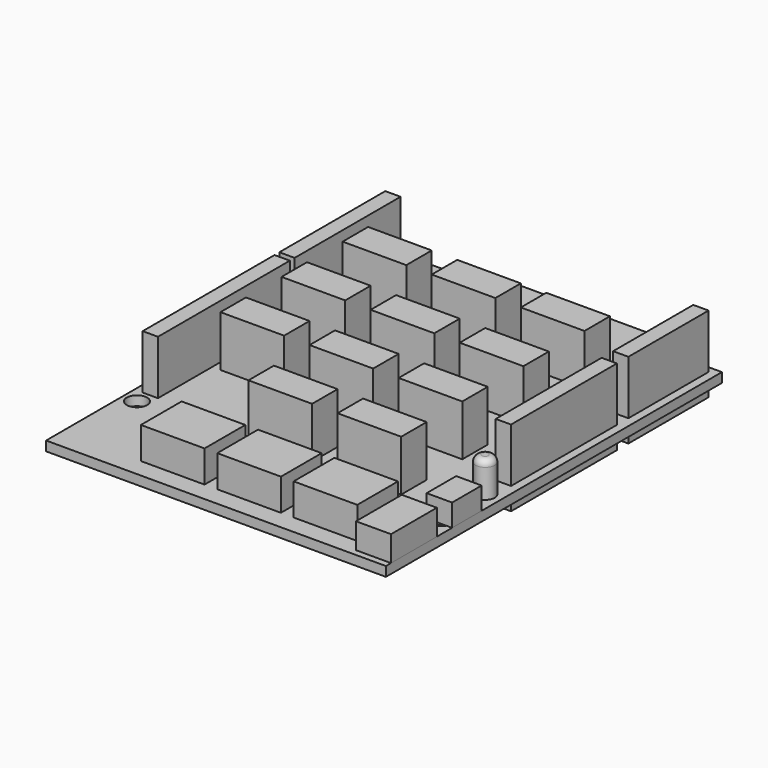
from build123d import *

# Parameters (mm, degrees)
PAD_DEPTH    = 1.5
SKETCH001_R  = 1.6
POCKET_DEPTH = 1.501
SKETCH006_W  = 2.4
SKETCH006_H  = 25.9
PAD005_DEPTH = 3.5
SKETCH007_W  = 2.4
SKETCH007_H  = 20.8
PAD006_DEPTH = 3.5
SKETCH008_W  = 2.4
SKETCH008_H  = 20.8
PAD007_DEPTH = 3.5
SKETCH009_W  = 2.4
SKETCH009_H  = 15.75
PAD008_DEPTH = 3.5
SKETCH010_W  = 10
SKETCH010_H  = 8
PAD009_DEPTH = 5
SKETCH011_W  = 10
SKETCH011_H  = 5
PAD010_DEPTH = 8
SKETCH015_W  = 2.4
SKETCH015_H  = 15.75
PAD014_DEPTH = 8.5
SKETCH012_W  = 2.4
SKETCH012_H  = 20.8
PAD012_DEPTH = 8.5
SKETCH014_W  = 2.4
SKETCH014_H  = 25.9
PAD011_DEPTH = 8.5
SKETCH013_W  = 2.4
SKETCH013_H  = 20.8
PAD013_DEPTH = 8.5
SKETCH016_R  = 1.5
PAD015_DEPTH = 5.5
FILLET_R     = 1
SKETCH017_W  = 4
SKETCH017_H  = 5.8
PAD016_DEPTH = 3.5
SKETCH018_W  = 5.5
SKETCH018_H  = 9
PAD017_DEPTH = 4


with BuildPart() as mainboard:
    # Sketch → Pad (new body)
    with BuildSketch(Plane.XY):
        Polygon((0, 0), (53.4, 0), (53.4, 66), (49.8, 66), (47.3, 68.5), (15.3, 68.5), (12.8, 66), (0, 66), align=None)
    extrude(amount=-PAD_DEPTH)

    # Sketch001 → Pocket (cut, through all)
    with BuildSketch(Plane.XY):
        with Locations((2.2, 15.1)):
            Circle(SKETCH001_R)
        with Locations((51.1, 13.8)):
            Circle(SKETCH001_R)
        with Locations((17.6, 66.3)):
            Circle(SKETCH001_R)
        with Locations((45.3, 66.3)):
            Circle(SKETCH001_R)
    extrude(amount=-POCKET_DEPTH, mode=Mode.SUBTRACT)


with BuildPart() as pins1:
    # Sketch006 → Pad005 (new body)
    with BuildSketch(Plane.XY):
        with Locations((2.5, 30.3)):
            Rectangle(SKETCH006_W, SKETCH006_H)
    extrude(amount=-PAD005_DEPTH)


with BuildPart() as pins2:
    # Sketch007 → Pad006 (new body)
    with BuildSketch(Plane.XY):
        with Locations((2.5, 54.6)):
            Rectangle(SKETCH007_W, SKETCH007_H)
    extrude(amount=-PAD006_DEPTH)


with BuildPart() as pins3:
    # Sketch008 → Pad007 (new body)
    with BuildSketch(Plane.XY):
        with Locations((50.9, 36.6)):
            Rectangle(SKETCH008_W, SKETCH008_H)
    extrude(amount=-PAD007_DEPTH)


with BuildPart() as pins4:
    # Sketch009 → Pad008 (new body)
    with BuildSketch(Plane.XY):
        with Locations((50.9, 57.125)):
            Rectangle(SKETCH009_W, SKETCH009_H)
    extrude(amount=-PAD008_DEPTH)


with BuildPart() as grove_a3:
    # Sketch010 → Pad009 (new body)
    with BuildSketch(Plane.XY):
        with Locations((5.5, 7)):
            Rectangle(SKETCH010_W, SKETCH010_H)
    extrude(amount=PAD009_DEPTH)


with BuildPart() as grove_a2:
    # Body010 base: copy of Grove_A3
    add(grove_a3.part)


with BuildPart() as grove_a2_1:
    # Body010 placement: moved
    add(grove_a2.part.moved(Location((12, 0, 0))))


with BuildPart() as grove_a1:
    # Body011 base: copy of Grove_A3
    add(grove_a3.part)


with BuildPart() as grove_a1_1:
    # Body011 placement: moved
    add(grove_a1.part.moved(Location((24, 0, 0))))


with BuildPart() as grove_a0:
    # Body012 base: copy of Grove_A3
    add(grove_a3.part)


with BuildPart() as grove_a0_1:
    # Body012 placement: moved
    add(grove_a0.part.moved(Location((36, 0, 0))))


with BuildPart() as grove_d4:
    # Sketch011 → Pad010 (new body)
    with BuildSketch(Plane.XY):
        with Locations((10, 18.5)):
            Rectangle(SKETCH011_W, SKETCH011_H)
    extrude(amount=PAD010_DEPTH)


with BuildPart() as grove_d8:
    # Body014 base: copy of Grove_D4
    add(grove_d4.part)


with BuildPart() as grove_d8_1:
    # Body014 placement: moved
    add(grove_d8.part.moved(Location((14, 0, 0))))


with BuildPart() as grove_i2c:
    # Body015 base: copy of Grove_D4
    add(grove_d4.part)


with BuildPart() as grove_i2c_1:
    # Body015 placement: moved
    add(grove_i2c.part.moved(Location((28, 0, 0))))


with BuildPart() as grove_d3:
    # Body016 base: copy of Grove_D4
    add(grove_d4.part)


with BuildPart() as grove_d3_1:
    # Body016 placement: moved
    add(grove_d3.part.moved(Location((0, 12, 0))))


with BuildPart() as header4_6pin001:
    # Sketch015 → Pad014 (new body)
    with BuildSketch(Plane.XY):
        with Locations((50.9, 57.125)):
            Rectangle(SKETCH015_W, SKETCH015_H)
    extrude(amount=PAD014_DEPTH)


with BuildPart() as header2_8pin001:
    # Sketch012 → Pad012 (new body)
    with BuildSketch(Plane.XY):
        with Locations((2.5, 54.6)):
            Rectangle(SKETCH012_W, SKETCH012_H)
    extrude(amount=PAD012_DEPTH)


with BuildPart() as header1_10pin001:
    # Sketch014 → Pad011 (new body)
    with BuildSketch(Plane.XY):
        with Locations((2.5, 30.3)):
            Rectangle(SKETCH014_W, SKETCH014_H)
    extrude(amount=PAD011_DEPTH)


with BuildPart() as header3_8pin001:
    # Sketch013 → Pad013 (new body)
    with BuildSketch(Plane.XY):
        with Locations((50.9, 36.6)):
            Rectangle(SKETCH013_W, SKETCH013_H)
    extrude(amount=PAD013_DEPTH)


with BuildPart() as grove_d7:
    # Body021 base: copy of Grove_D4
    add(grove_d4.part)


with BuildPart() as grove_d7_1:
    # Body021 placement: moved
    add(grove_d7.part.moved(Location((14, 12, 0))))


with BuildPart() as grove_i2c2:
    # Body022 base: copy of Grove_D4
    add(grove_d4.part)


with BuildPart() as grove_i2c2_1:
    # Body022 placement: moved
    add(grove_i2c2.part.moved(Location((28, 12, 0))))


with BuildPart() as grove_d2:
    # Body023 base: copy of Grove_D4
    add(grove_d4.part)


with BuildPart() as grove_d2_1:
    # Body023 placement: moved
    add(grove_d2.part.moved(Location((0, 24, 0))))


with BuildPart() as grove_d6:
    # Body024 base: copy of Grove_D4
    add(grove_d4.part)


with BuildPart() as grove_d6_1:
    # Body024 placement: moved
    add(grove_d6.part.moved(Location((14, 24, 0))))


with BuildPart() as grove_i2c3:
    # Body025 base: copy of Grove_D4
    add(grove_d4.part)


with BuildPart() as grove_i2c3_1:
    # Body025 placement: moved
    add(grove_i2c3.part.moved(Location((28, 24, 0))))


with BuildPart() as grove_uart:
    # Body026 base: copy of Grove_D4
    add(grove_d4.part)


with BuildPart() as grove_uart_1:
    # Body026 placement: moved
    add(grove_uart.part.moved(Location((0, 36, 0))))


with BuildPart() as grove_d5:
    # Body027 base: copy of Grove_D4
    add(grove_d4.part)


with BuildPart() as grove_d5_1:
    # Body027 placement: moved
    add(grove_d5.part.moved(Location((14, 36, 0))))


with BuildPart() as grove_i2c4:
    # Body028 base: copy of Grove_D4
    add(grove_d4.part)


with BuildPart() as grove_i2c4_1:
    # Body028 placement: moved
    add(grove_i2c4.part.moved(Location((28, 36, 0))))


with BuildPart() as powerled:
    # Sketch016 → Pad015 (new body)
    with BuildSketch(Plane.XY):
        with Locations((51, 22.5)):
            Circle(SKETCH016_R)
    extrude(amount=PAD015_DEPTH)

    # Fillet
    fillet_edges = [powerled.edges().sort_by_distance(p)[0] for p in [
        (49.5, 22.5, 5.5),
    ]]
    fillet(fillet_edges, radius=FILLET_R)


with BuildPart() as obj1:
    # Sketch017 → Pad016 (new body)
    with BuildSketch(Plane.XY):
        with Locations((51.4, 15.9)):
            Rectangle(SKETCH017_W, SKETCH017_H)
    extrude(amount=PAD016_DEPTH)


with BuildPart() as voltageswitch:
    # Sketch018 → Pad017 (new body)
    with BuildSketch(Plane.XY):
        with Locations((50.65, 5.5)):
            Rectangle(SKETCH018_W, SKETCH018_H)
    extrude(amount=PAD017_DEPTH)


solid = Compound([mainboard.part, pins1.part, pins2.part, pins3.part, pins4.part, grove_a2_1.part, grove_a1_1.part, grove_a0_1.part, grove_d8_1.part, grove_i2c_1.part, grove_d3_1.part, header4_6pin001.part, header2_8pin001.part, header1_10pin001.part, header3_8pin001.part, grove_d7_1.part, grove_i2c2_1.part, grove_d2_1.part, grove_d6_1.part, grove_i2c3_1.part, grove_uart_1.part, grove_d5_1.part, grove_i2c4_1.part, powerled.part, obj1.part, voltageswitch.part])
